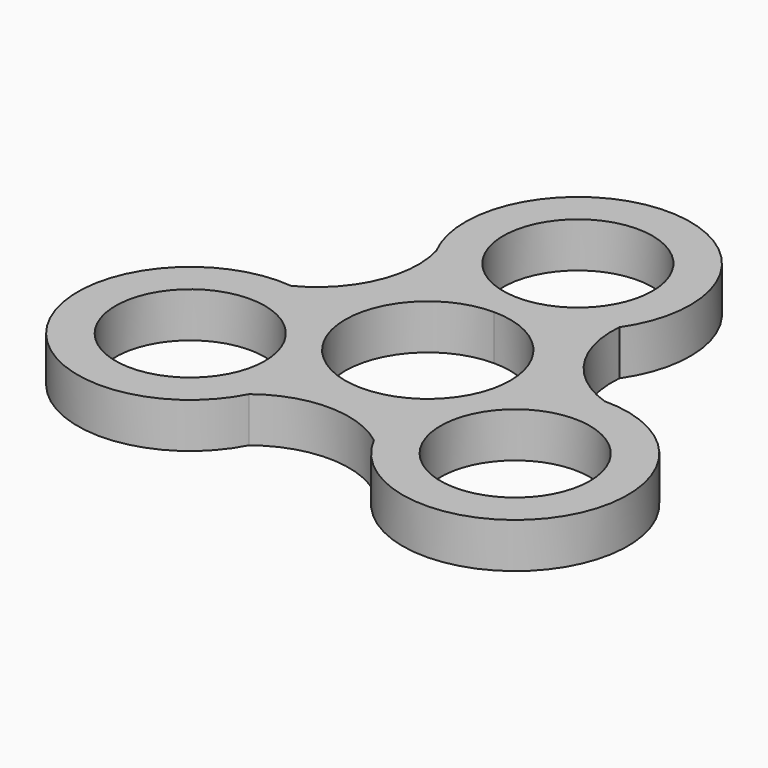
from build123d import *

# Parameters (mm, degrees)
F0_R     = 9.95
F1_DEPTH = 6


with BuildPart() as f1:
    # F0 (on Top) → F1 (new body)
    with BuildSketch(Plane.XY):
        with BuildLine():
            ThreePointArc((21.557813, 2.499713), (14.522567, 7.888802), (12.344861, 16.479178))
            ThreePointArc((12.344861, 16.479178), (0.911041, 39.972308), (-13.286915, 18.03883))
            ThreePointArc((-13.286915, 18.03883), (-13.935579, 9.012352), (-20.139405, 2.423679))
            ThreePointArc((-20.139405, 2.423679), (-34.833486, -19.656287), (-8.312649, -19.362807))
            ThreePointArc((-8.312649, -19.362807), (0, -16.5), (8.312649, -19.362807))
            ThreePointArc((8.312649, -19.362807), (34.479863, -20.272445), (21.557813, 2.499713))
        make_face()
        with Locations((-21.650635, -12.5)):
            Circle(F0_R, mode=Mode.SUBTRACT)
        with Locations((21.650635, -12.5)):
            Circle(F0_R, mode=Mode.SUBTRACT)
        with BuildLine():
            ThreePointArc((0, 11), (7.778175, 7.778175), (11, 0))
            ThreePointArc((11, 0), (7.778175, -7.778175), (0, -11))
            ThreePointArc((0, -11), (-11, 0), (0, 11))
        make_face(mode=Mode.SUBTRACT)
        with Locations((0, 25)):
            Circle(F0_R, mode=Mode.SUBTRACT)
    extrude(amount=F1_DEPTH)


solid = f1.part
